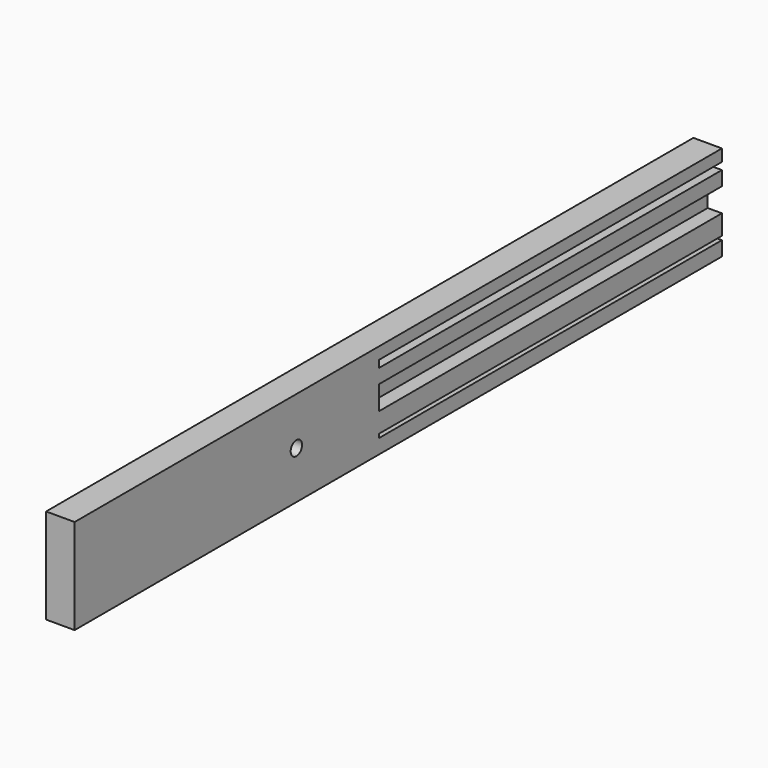
from build123d import *

# Parameters (mm, degrees)
F0_W     = 340
F0_H     = 40
F1_DEPTH = 6
F2_W     = 180
F2_H     = 3
F3_DEPTH = 6
F5_D     = 6
F6_W     = 180
F6_H     = 10
F7_DEPTH = 6
F8_W     = 180
F8_H     = 1.6
F9_DEPTH = 4


with BuildPart() as f1:
    # F0 (on Right) → F1 (new body, symmetric)
    with BuildSketch(Plane.YZ):
        with Locations((170, 20)):
            Rectangle(F0_W, F0_H)
    extrude(amount=F1_DEPTH, both=True)

    # F2 (on face) → F3 (cut)
    with BuildSketch(Plane.YZ.offset(6)):
        with Locations((250, 33.5)):
            Rectangle(F2_W, F2_H)
    extrude(amount=-F3_DEPTH, mode=Mode.SUBTRACT)

    # F5 (through all)
    with Locations(Plane.YZ.offset(6)):
        with Locations((116.477057, 20)):
            Hole(F5_D / 2)

    # F6 (on face) → F7 (cut)
    with BuildSketch(Plane.YZ.offset(6)):
        with Locations((250, 21)):
            Rectangle(F6_W, F6_H)
    extrude(amount=-F7_DEPTH, mode=Mode.SUBTRACT)

    # F8 (on face) → F9 (cut)
    with BuildSketch(Plane.YZ.offset(6)):
        with Locations((250, 6.862387)):
            Rectangle(F8_W, F8_H)
    extrude(amount=-F9_DEPTH, mode=Mode.SUBTRACT)


solid = f1.part
